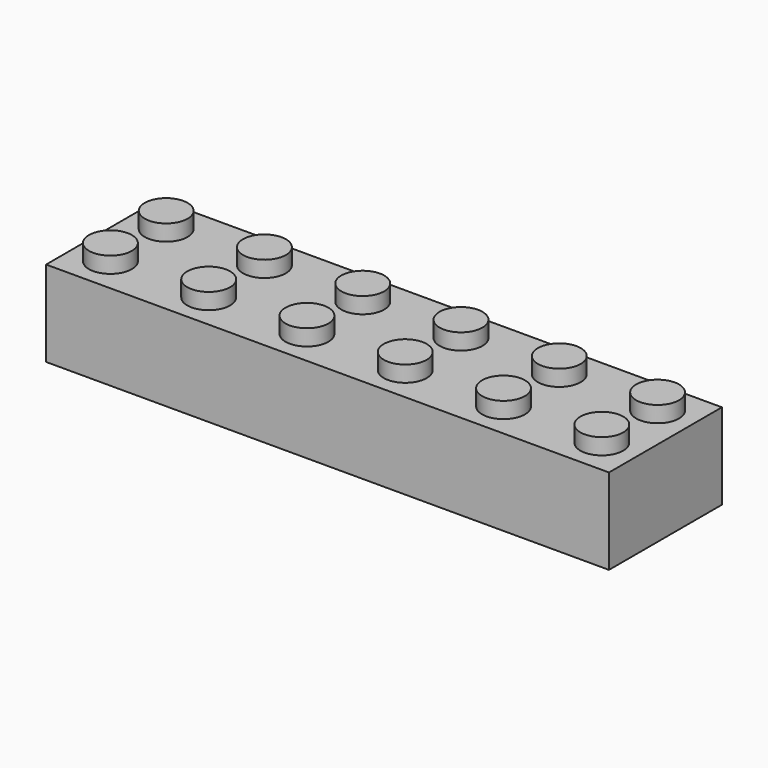
from build123d import *

# Parameters (mm, degrees)
SKETCH_W               = 63
SKETCH_H               = 15.8
PAD_DEPTH              = 9.6
SKETCH001_W            = 60.6
SKETCH001_H            = 13.4
POCKET_DEPTH           = 8.6
SKETCH002_R            = 2.4
PAD001_DEPTH           = 1.8
LINEARPATTERN_COUNT    = 6
LINEARPATTERN_PITCH    = 11
SKETCH003_R            = 3.255
PAD002_DEPTH           = 8.6
LINEARPATTERN001_COUNT = 6
LINEARPATTERN001_PITCH = 9.4
SKETCH004_R            = 2.4
POCKET001_DEPTH        = 8.6
LINEARPATTERN002_COUNT = 6
LINEARPATTERN002_PITCH = 9.4


with BuildPart() as part:
    # Sketch → Pad (new body)
    with BuildSketch(Plane.XY):
        with Locations((5.290092, -4.615627)):
            Rectangle(SKETCH_W, SKETCH_H)
    extrude(amount=PAD_DEPTH)

    # Sketch001 → Pocket (cut)
    with BuildSketch(Plane(origin=(0, 0, 0), x_dir=(1, 0, 0), z_dir=(0, 0, -1))):
        with Locations((5.290092, 4.615627)):
            Rectangle(SKETCH001_W, SKETCH001_H)
    extrude(amount=-POCKET_DEPTH, mode=Mode.SUBTRACT)

    # Sketch002 → Pad001 (new body)
    with BuildSketch(Plane.XY.offset(9.6)):
        with Locations((-22.209908, -0.715627)):
            Circle(SKETCH002_R)
        with Locations((-22.209908, -8.515627)):
            Circle(SKETCH002_R)
    pad001 = extrude(amount=PAD001_DEPTH)

    # LinearPattern: Pad001 ×6
    with Locations(*[(i * LINEARPATTERN_PITCH, 0, 0) for i in range(1, LINEARPATTERN_COUNT)]):
        add(pad001)

    # Sketch003 → Pad002 (new body)
    with BuildSketch(Plane(origin=(0, 0, 8.6), x_dir=(1, 0, 0), z_dir=(0, 0, -1))):
        with Locations((-18.209908, 4.715627)):
            Circle(SKETCH003_R)
    pad002 = extrude(amount=PAD002_DEPTH)

    # LinearPattern001: Pad002 ×6
    with Locations(*[(i * LINEARPATTERN001_PITCH, 0, 0) for i in range(1, LINEARPATTERN001_COUNT)]):
        add(pad002)

    # Sketch004 → Pocket001 (cut)
    with BuildSketch(Plane(origin=(0, 0, 0), x_dir=(1, 0, 0), z_dir=(0, 0, -1))):
        with Locations((-18.209908, 4.715627)):
            Circle(SKETCH004_R)
    pocket001 = extrude(amount=-POCKET001_DEPTH, mode=Mode.SUBTRACT)

    # LinearPattern002: Pocket001 ×6
    with Locations(*[(i * LINEARPATTERN002_PITCH, 0, 0) for i in range(1, LINEARPATTERN002_COUNT)]):
        add(pocket001, mode=Mode.SUBTRACT)


solid = part.part
